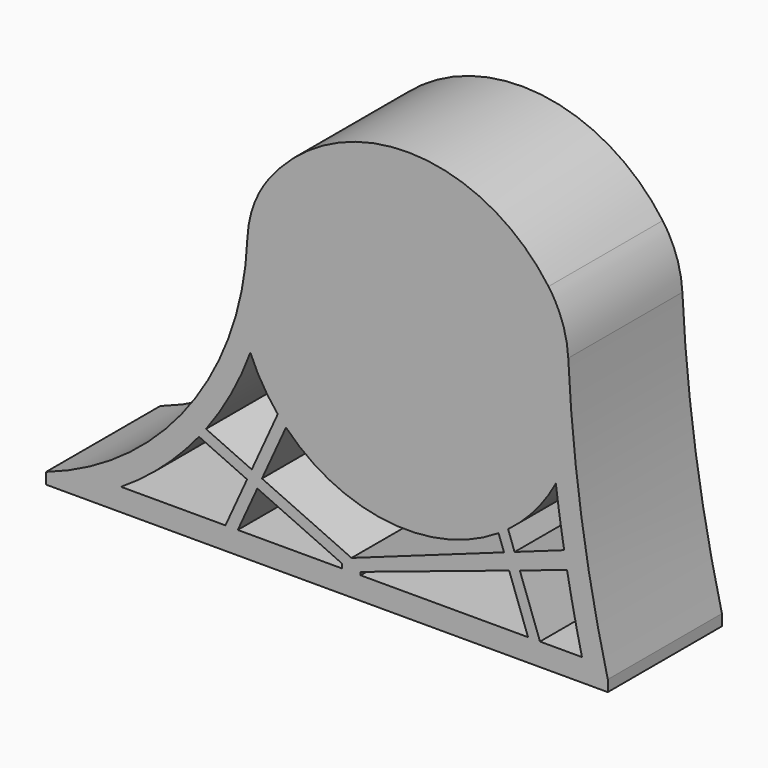
from build123d import *

# Parameters (mm, degrees)
F0_R     = 13.037168
F1_DEPTH = 1
F2_DEPTH = 11.7
F4_DEPTH = 25
F5_R     = 9.452617


with BuildPart() as f1:
    # F0 (on Front) → F1 (new body)
    with BuildSketch(Plane.XZ):
        with BuildLine():
            Line((-25, -0.5), (25, -0.5))
            Line((25, -0.5), (25, 0.5))
            ThreePointArc((25, 0.5), (22.513025, 13.448456), (21.397779, 26.586331))
            ThreePointArc((21.397779, 26.586331), (7.155404, 36.033672), (-7.086971, 26.586331))
            ThreePointArc((-7.086971, 26.586331), (-11.727618, 10.579535), (-25, 0.5))
            Line((-25, 0.5), (-25, -0.5))
        make_face()
        with Locations((7.113422, 21.42911)):
            Circle(F0_R, mode=Mode.SUBTRACT)
        with Locations((7.113422, 21.42911)):
            Circle(F0_R)
    extrude(amount=F1_DEPTH)

    # F0 (on Front) → F2 (join)
    with BuildSketch(Plane.XZ):
        with BuildLine():
            Line((-25, -0.5), (25, -0.5))
            Line((25, -0.5), (25, 0.5))
            ThreePointArc((25, 0.5), (22.513025, 13.448456), (21.397779, 26.586331))
            ThreePointArc((21.397779, 26.586331), (7.155404, 36.033672), (-7.086971, 26.586331))
            ThreePointArc((-7.086971, 26.586331), (-11.727618, 10.579535), (-25, 0.5))
            Line((-25, 0.5), (-25, -0.5))
        make_face()
        with Locations((7.113422, 21.42911)):
            Circle(F0_R, mode=Mode.SUBTRACT)
    extrude(amount=-F2_DEPTH)

    # F3 (on face) → F4 (cut)
    with BuildSketch(Plane(origin=(0, 11.7, 0), x_dir=(-1, 0, 0), z_dir=(0, 1, 0))):
        with BuildLine():
            Line((-17.169921, 6.49079), (-21.374672, 7.891529))
            ThreePointArc((-21.374672, 7.891529), (-21.997455, 4.687271), (-22.702033, 1.5))
            Line((-22.702033, 1.5), (-18.964415, 1.5))
            Line((-18.964415, 1.5), (-17.169921, 6.49079))
        make_face()
        with BuildLine():
            Line((-16.703859, 7.786989), (-16.126572, 9.392519))
            ThreePointArc((-16.126572, 9.392519), (-18.523006, 11.634326), (-20.376068, 14.342601))
            ThreePointArc((-20.376068, 14.342601), (-20.721893, 11.849812), (-21.116834, 9.364331))
            Line((-21.116834, 9.364331), (-16.703859, 7.786989))
        make_face()
        with BuildLine():
            Line((5.783263, 6.227552), (3.645503, 10.923782))
            ThreePointArc((3.645503, 10.923782), (-5.436746, 6.485712), (-15.276698, 8.800677))
            Line((-15.276698, 8.800677), (-15.762202, 7.450409))
            Line((-15.762202, 7.450409), (-2.188527, 2.598733))
            Line((-2.188527, 2.598733), (5.783263, 6.227552))
        make_face()
        Polygon((-17.901738, 1.5), (-2.994426, 1.5), (-2.994426, 1.768471), (-16.220917, 6.174646), align=None)
        Polygon((-1.334743, 1.5), (7.935281, 1.5), (6.197565, 5.317413), (-1.334743, 1.888649), align=None)
        with BuildLine():
            ThreePointArc((18.324978, 1.5), (14.605987, 4.307356), (11.393648, 7.682709))
            Line((11.393648, 7.682709), (7.107705, 5.731715))
            Line((7.107705, 5.731715), (9.034014, 1.5))
            Line((9.034014, 1.5), (18.324978, 1.5))
        make_face()
        with BuildLine():
            ThreePointArc((10.762688, 8.494224), (8.524386, 11.985495), (6.815958, 15.764417))
            ThreePointArc((6.815958, 15.764417), (5.755764, 13.650907), (4.377367, 11.729721))
            Line((4.377367, 11.729721), (6.693402, 6.641855))
            Line((6.693402, 6.641855), (10.762688, 8.494224))
        make_face()
    extrude(amount=-F4_DEPTH, mode=Mode.SUBTRACT)

    # F5
    f5_edges = [f1.edges().sort_by_distance(p)[0] for p in [
        (-7.086971, 5.35, 26.586331),
        (21.397779, 5.35, 26.586331),
    ]]
    fillet(f5_edges, radius=F5_R)


solid = f1.part
